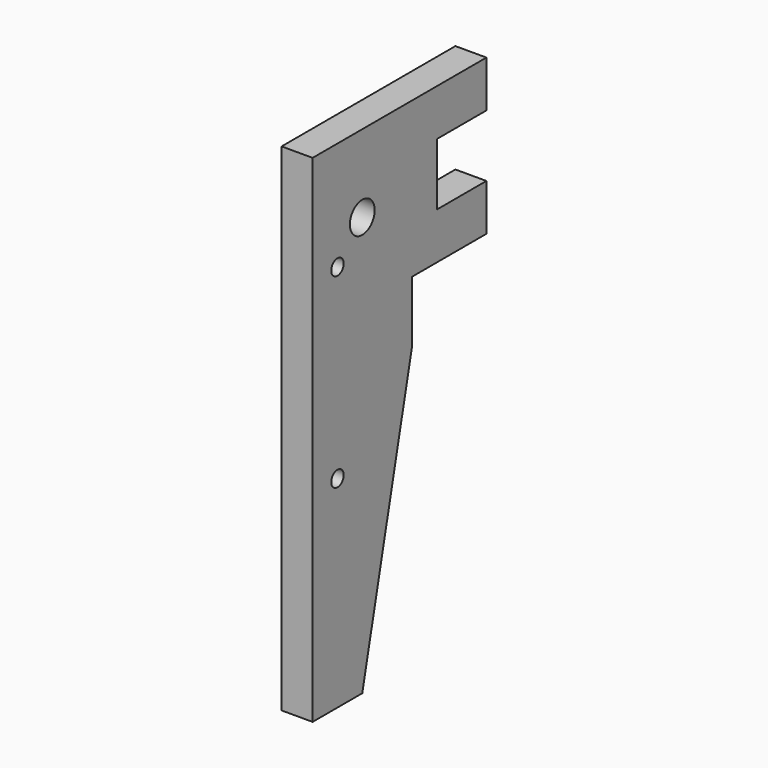
from build123d import *

# Parameters (mm, degrees)
F2_DEPTH = 1.5875
F1_R     = 1.5875
F1_R_2   = 0.79375
F3_DEPTH = 12.7


with BuildPart() as f2:
    # F0 (on Right) → F2 (new body, symmetric)
    with BuildSketch(Plane.YZ):
        Polygon((-22.883659, 58.271262), (-22.883659, 64.621262), (-13.358659, 64.621262), (-13.358659, 69.383762), (-19.708659, 69.383762), (-19.708659, 75.733762), (-13.358659, 75.733762), (-13.358659, 80.496262), (-35.583659, 80.496262), (-35.583659, 29.696262), (-29.233659, 29.696262), align=None)
    extrude(amount=F2_DEPTH, both=True)

    # F1 (on Right) → F3 (cut, symmetric)
    with BuildSketch(Plane.YZ):
        with Locations((-29.233659, 72.558762)):
            Circle(F1_R)
        with Locations((-32.408659, 50.326142)):
            Circle(F1_R_2)
        with Locations((-32.408659, 69.376142)):
            Circle(F1_R_2)
    extrude(amount=F3_DEPTH, both=True, mode=Mode.SUBTRACT)


solid = f2.part
